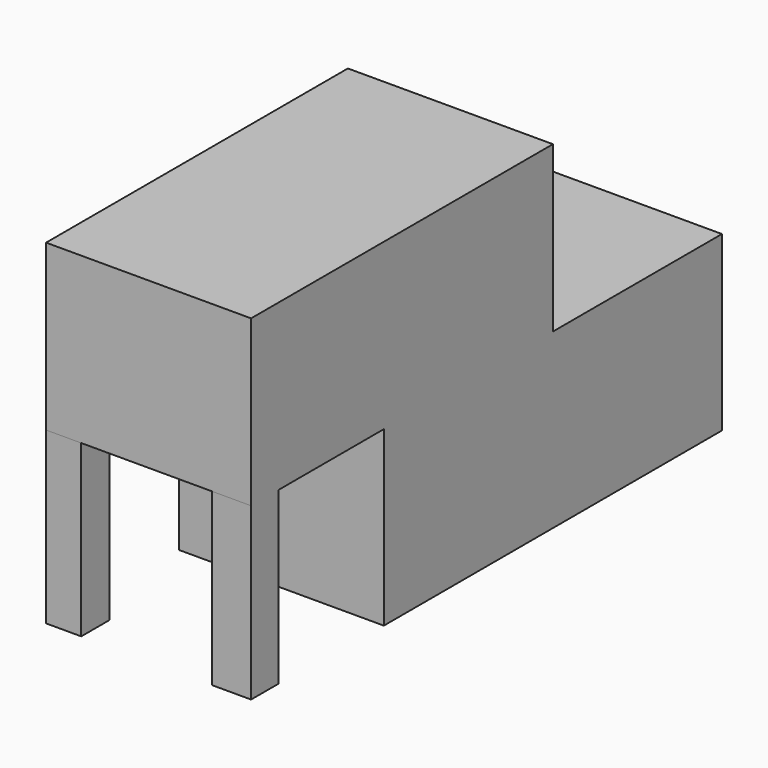
from build123d import *

# Parameters (mm, degrees)
F0_W     = 41.342575
F0_H     = 85.221954
F1_DEPTH = 34.889519
F2_W     = 41.342575
F2_H     = 76.076616
F3_DEPTH = 33.270478
F4_W     = 7.088874
F4_H     = 7.146471
F5_DEPTH = 34.3295
F6_W     = 7.894669
F6_H     = 6.943033
F7_DEPTH = 34.407657


with BuildPart() as f1:
    # F0 (on Top) → F1 (new body)
    with BuildSketch(Plane.XY):
        with Locations((20.671287, 0.345733)):
            Rectangle(F0_W, F0_H)
    extrude(amount=F1_DEPTH)

    # F2 (on face) → F3 (join)
    with BuildSketch(Plane.XY.offset(34.889519)):
        with Locations((20.671287, -37.692575)):
            Rectangle(F2_W, F2_H)
    extrude(amount=F3_DEPTH)

    # F4 (on face) → F5 (join)
    with BuildSketch(Plane(origin=(0, 0, 34.889519), x_dir=(1, 0, 0), z_dir=(0, 0, -1))):
        with Locations((3.544437, 72.157647)):
            Rectangle(F4_W, F4_H)
    extrude(amount=F5_DEPTH)

    # F6 (on face) → F7 (join)
    with BuildSketch(Plane(origin=(0, 0, 34.889519), x_dir=(1, 0, 0), z_dir=(0, 0, -1))):
        with Locations((37.39524, 72.259366)):
            Rectangle(F6_W, F6_H)
    extrude(amount=F7_DEPTH)


solid = f1.part
